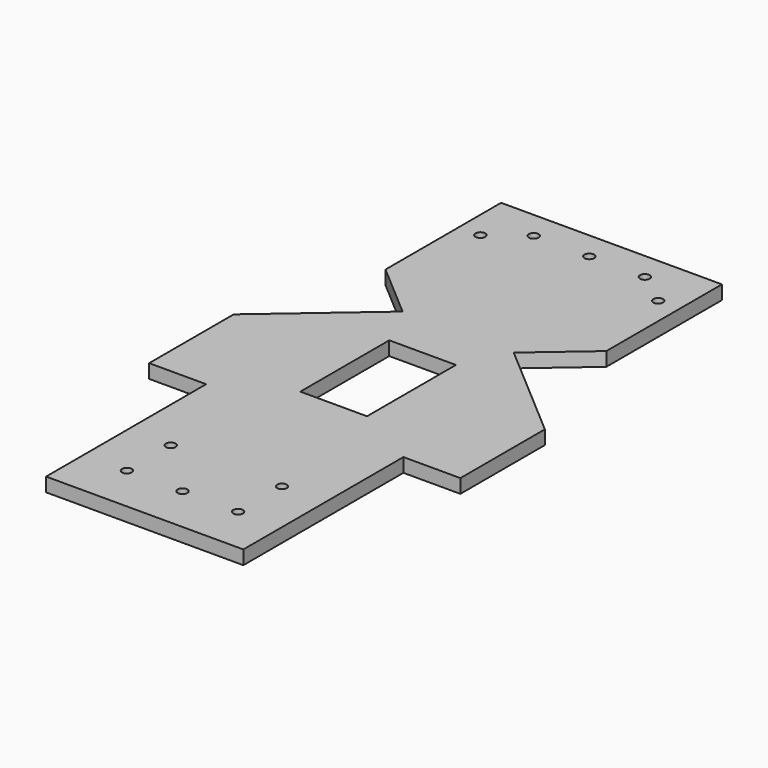
from build123d import *

# Parameters (mm, degrees)
F0_R     = 1.75
F0_W     = 24
F0_H     = 40
F1_DEPTH = 5


with BuildPart() as f1:
    # F0 (on Top) → F1 (new body)
    with BuildSketch(Plane.XY):
        Polygon((-35.5, -105), (35.5, -105), (35.5, -33), (56, -33), (56, 5.024198), (20, 36.012099), (39.735588, 53), (39.735588, 105), (-39.735588, 105), (-39.735588, 53), (-20, 36.012099), (-56, 5.024198), (-56, -33), (-35.5, -33), align=None)
        with Locations((-20, -88)):
            Circle(F0_R, mode=Mode.SUBTRACT)
        with Locations((-20, -68.25)):
            Circle(F0_R, mode=Mode.SUBTRACT)
        with Locations((0, -88)):
            Circle(F0_R, mode=Mode.SUBTRACT)
        with Locations((20, -88)):
            Circle(F0_R, mode=Mode.SUBTRACT)
        with Locations((20, -68.25)):
            Circle(F0_R, mode=Mode.SUBTRACT)
        with Locations((-32, 86)):
            Circle(F0_R, mode=Mode.SUBTRACT)
        with Locations((-20, 95)):
            Circle(F0_R, mode=Mode.SUBTRACT)
        Rectangle(F0_W, F0_H, mode=Mode.SUBTRACT)
        with Locations((0, 95)):
            Circle(F0_R, mode=Mode.SUBTRACT)
        with Locations((20, 95)):
            Circle(F0_R, mode=Mode.SUBTRACT)
        with Locations((32, 86)):
            Circle(F0_R, mode=Mode.SUBTRACT)
    extrude(amount=F1_DEPTH)


solid = f1.part
